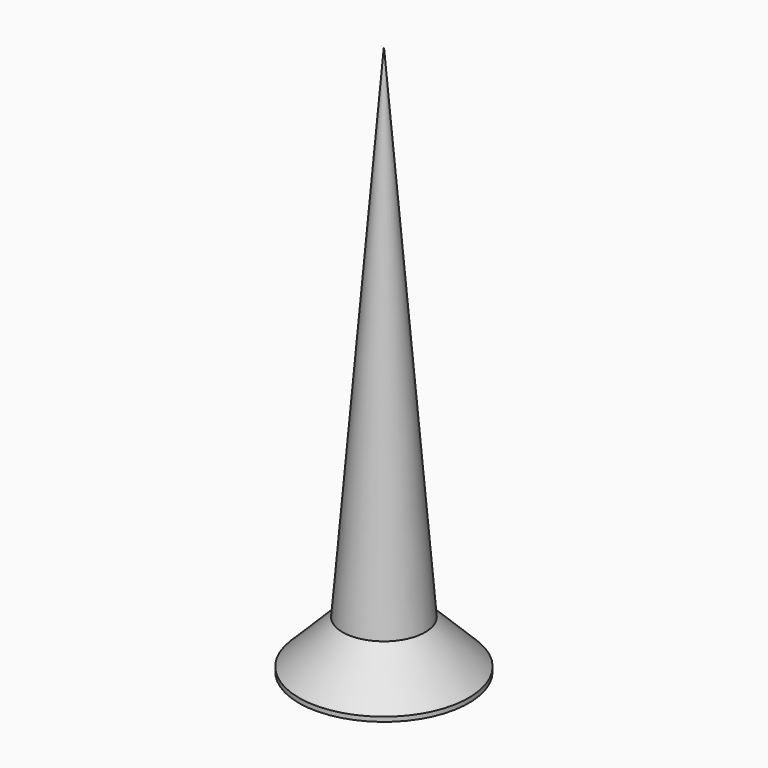
from build123d import *

# Parameters (mm, degrees)
POCKET002_DEPTH         = 0.2
POLARPATTERN002_COUNT   = 2
POLARPATTERN002_ANGLE   = 90
BODY006_PLACEMENT_ANGLE = 180


with BuildPart() as part:
    # Sketch012 → Revolution002 (revolve)
    with BuildSketch(Plane.XZ):
        Polygon((0, 0), (0, -12), (0.9, -1.05), (1.85, -0.1), (1.85, 0), align=None)
    revolve(axis=Axis((0, 0, 0), (0, 0, 1)))

    # Sketch011 → Pocket002 (cut, symmetric)
    with BuildSketch(Plane.XZ):
        Polygon((-1.15, 0), (0, -1.15), (1.15, 0), align=None)
    pocket002 = extrude(amount=POCKET002_DEPTH, both=True, mode=Mode.SUBTRACT)

    # PolarPattern002: Pocket002 ×2 about axis
    polarpattern002_axis = Axis((0, 0, 0), (0, 0, 1))
    for i in range(1, POLARPATTERN002_COUNT):
        add(pocket002.rotate(polarpattern002_axis, i * POLARPATTERN002_ANGLE / (POLARPATTERN002_COUNT - 1)), mode=Mode.SUBTRACT)


with BuildPart() as part_1:
    # Body006 placement: moved
    add(part.part.moved(Location((12, 21, -22))).rotate(Axis((12, 21, -22), (0, 1, 0)), BODY006_PLACEMENT_ANGLE))


solid = part_1.part
